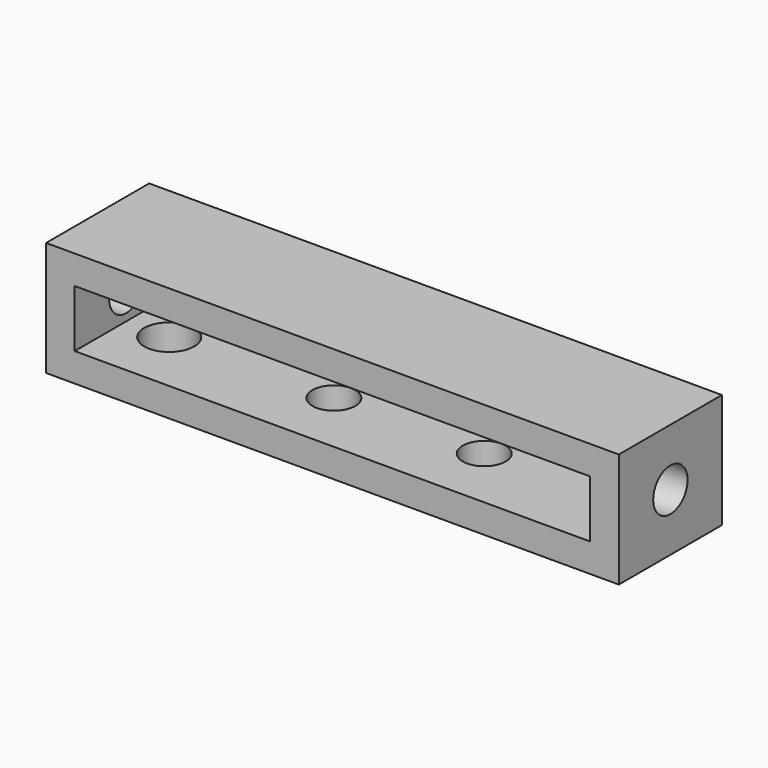
from build123d import *

# Parameters (mm, degrees)
F0_W     = 80
F0_H     = 16
F0_W_2   = 72
F0_H_2   = 8
F1_DEPTH = 18
F2_R     = 3
F3_DEPTH = 80
F4_DEPTH = 4
F5_R     = 3.5
F5_R_2   = 3
F6_DEPTH = 5


with BuildPart() as f1:
    # F0 (on Front) → F1 (new body)
    with BuildSketch(Plane.XZ):
        with Locations((40, 8)):
            Rectangle(F0_W, F0_H)
        with Locations((40, 8)):
            Rectangle(F0_W_2, F0_H_2, mode=Mode.SUBTRACT)
    extrude(amount=F1_DEPTH)

    # F2 (on face) → F3 (cut)
    with BuildSketch(Plane(origin=(0, 0, 0), x_dir=(0, -1, 0), z_dir=(-1, 0, 0))):
        with Locations((9, 8)):
            Circle(F2_R)
    extrude(amount=-F3_DEPTH, mode=Mode.SUBTRACT)

    # F0 (on Front) → F4 (join)
    with BuildSketch(Plane.XZ):
        with Locations((40, 8)):
            Rectangle(F0_W_2, F0_H_2)
    extrude(amount=F4_DEPTH)

    # F5 (on face) → F6 (cut)
    with BuildSketch(Plane(origin=(0, 0, 0), x_dir=(1, 0, 0), z_dir=(0, 0, -1))):
        with Locations((10, 9)):
            Circle(F5_R)
        with Locations((33, 9)):
            Circle(F5_R_2)
        with Locations((54, 9)):
            Circle(F5_R_2)
    extrude(amount=-F6_DEPTH, mode=Mode.SUBTRACT)


solid = f1.part
